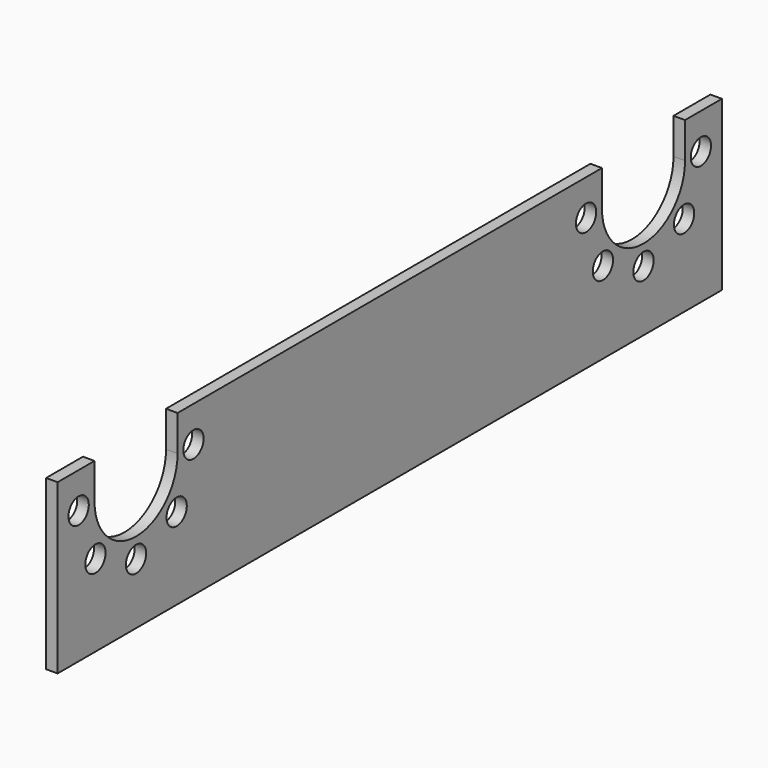
from build123d import *

# Parameters (mm, degrees)
F0_W     = 1
F0_H     = 20
F1_DEPTH = 72
F2_R     = 1.1
F3_DEPTH = 1.001
F4_W     = 72
F4_H     = 5.4
F5_DEPTH = 1.001


with BuildPart() as f1:
    # F0 (on Front) → F1 (new body)
    with BuildSketch(Plane.XZ):
        with Locations((-0.5, 10)):
            Rectangle(F0_W, F0_H)
    extrude(amount=F1_DEPTH)

    # F2 (on face) → F3 (cut, through all)
    with BuildSketch(Plane(origin=(-1, 0, 0), x_dir=(0, -1, 0), z_dir=(-1, 0, 0))):
        with BuildLine():
            Line((4, 20), (4, 11.5))
            ThreePointArc((4, 11.5), (8.5, 7), (13, 11.5))
            Line((13, 11.5), (13, 20))
            Line((13, 20), (4, 20))
        make_face()
        with Locations((2.27746, 11.5)):
            Circle(F2_R)
        with Locations((4.1, 7.1)):
            Circle(F2_R)
        with Locations((8.5, 5.27746)):
            Circle(F2_R)
        with Locations((12.9, 7.1)):
            Circle(F2_R)
        with Locations((14.72254, 11.5)):
            Circle(F2_R)
        with BuildLine():
            ThreePointArc((59, 11.5), (63.5, 7), (68, 11.5))
            Line((68, 11.5), (68, 20))
            Line((68, 20), (59, 20))
            Line((59, 20), (59, 11.5))
        make_face()
        with Locations((69.72254, 11.5)):
            Circle(F2_R)
        with Locations((67.9, 7.1)):
            Circle(F2_R)
        with Locations((63.5, 5.27746)):
            Circle(F2_R)
        with Locations((59.1, 7.1)):
            Circle(F2_R)
        with Locations((57.27746, 11.5)):
            Circle(F2_R)
    extrude(amount=-F3_DEPTH, mode=Mode.SUBTRACT)

    # F4 (on face) → F5 (cut, through all)
    with BuildSketch(Plane(origin=(-1, 0, 0), x_dir=(0, -1, 0), z_dir=(-1, 0, 0))):
        with Locations((36, 17.3)):
            Rectangle(F4_W, F4_H)
    extrude(amount=-F5_DEPTH, mode=Mode.SUBTRACT)


solid = f1.part
